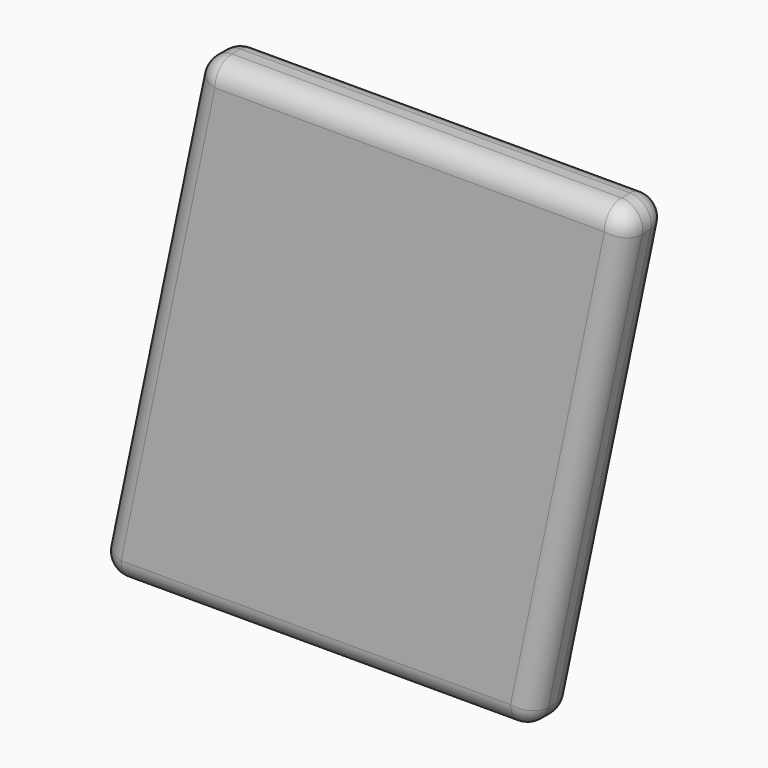
from build123d import *

# Parameters (mm, degrees)
F1_DEPTH = 12.7
F2_R     = 5.08


with BuildPart() as f1:
    # F0 (on Front) → F1 (new body)
    with BuildSketch(Plane.XZ):
        Polygon((39.49221, -58.517121), (64.056858, 58.517121), (-39.49221, 58.517121), (-64.056858, -58.517121), align=None)
    extrude(amount=F1_DEPTH)

    # F2
    f2_edges = [f1.edges().sort_by_distance(p)[0] for p in [
        (51.774534, -12.7, 0),
        (39.49221, -6.35, -58.517121),
        (51.774534, 0, 0),
        (64.056858, -6.35, 58.517121),
        (-64.056858, -6.35, -58.517121),
        (-12.282324, 0, -58.517121),
        (-12.282324, -12.7, -58.517121),
        (-39.49221, -6.35, 58.517121),
        (12.282324, 0, 58.517121),
        (12.282324, -12.7, 58.517121),
        (-51.774534, 0, 0),
        (-51.774534, -12.7, 0),
    ]]
    fillet(f2_edges, radius=F2_R)


solid = f1.part
